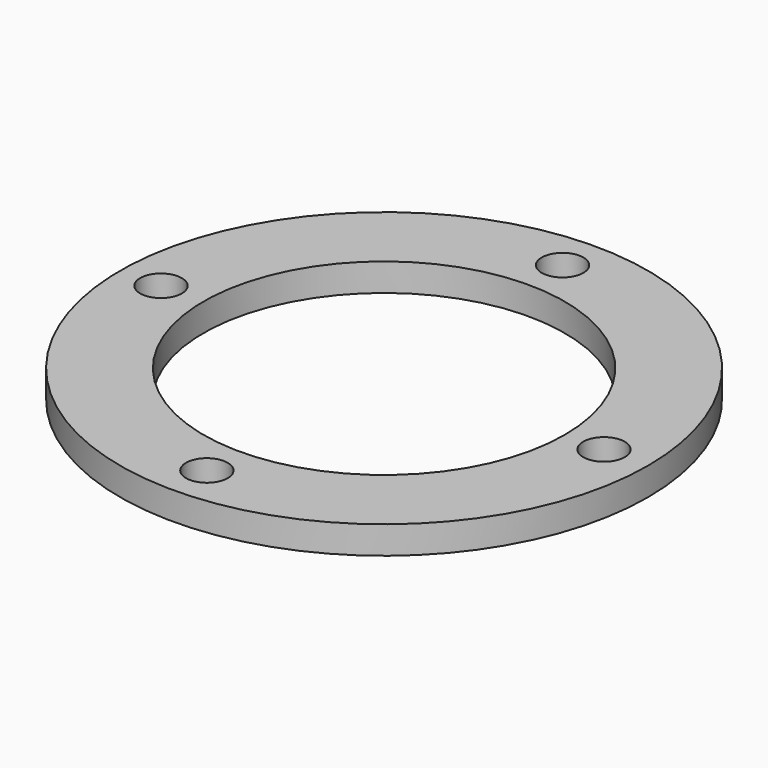
from build123d import *

# Parameters (mm, degrees)
F0_R     = 47.5
F0_R_2   = 3.75
F0_R_3   = 32.5
F1_DEPTH = 5


with BuildPart() as f1:
    # F0 (on Top) → F1 (new body)
    with BuildSketch(Plane.XY):
        Circle(F0_R)
        with Locations((0, -39.861098)):
            Circle(F0_R_2, mode=Mode.SUBTRACT)
        with Locations((-40.148903, 0)):
            Circle(F0_R_2, mode=Mode.SUBTRACT)
        Circle(F0_R_3, mode=Mode.SUBTRACT)
        with Locations((39.573293, 0)):
            Circle(F0_R_2, mode=Mode.SUBTRACT)
        with Locations((0, 40.148903)):
            Circle(F0_R_2, mode=Mode.SUBTRACT)
    extrude(amount=-F1_DEPTH)


solid = f1.part
